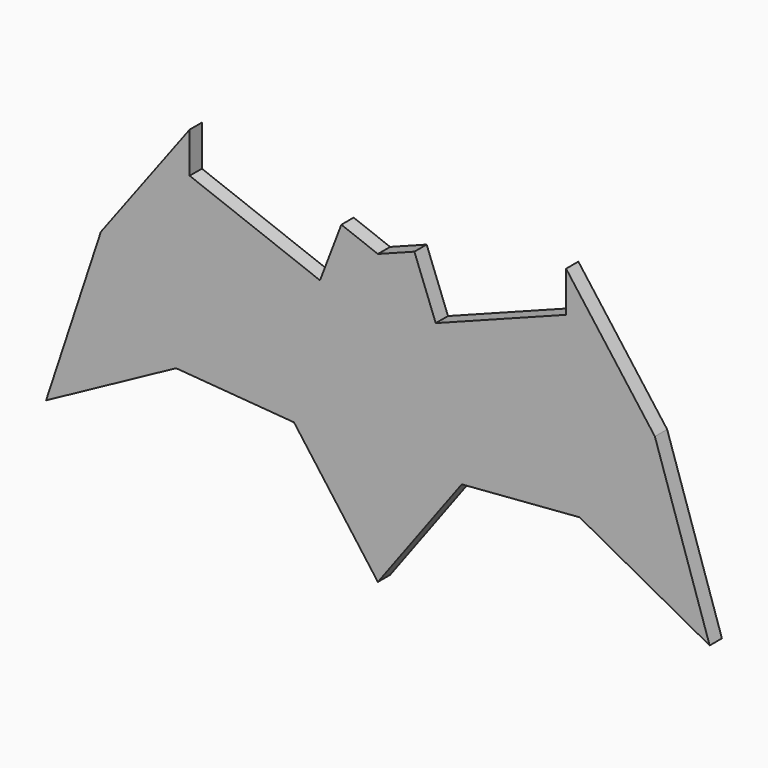
from build123d import *

# Parameters (mm, degrees)
F1_DEPTH = 3.175


with BuildPart() as f1:
    # F0 (on Front) → F1 (new body, symmetric)
    with BuildSketch(Plane.XZ):
        Polygon((0, -81.765905), (0, 37.786804), (-15.120774, 43.55301), (-23.959085, 20.376225), (-77.926721, 40.95642), (-77.926721, 57.776328), (-114.683963, 8.571353), (-137.364388, -60.238726), (-83.546437, -31.023275), (-34.725882, -34.867413), align=None)
        Polygon((15.120774, 43.55301), (0, 37.786804), (0, -81.765905), (34.725882, -34.867413), (83.546437, -31.023275), (137.364388, -60.238726), (114.683963, 8.571353), (77.926721, 57.776328), (77.926721, 40.95642), (23.959085, 20.376225), align=None)
    extrude(amount=F1_DEPTH, both=True)


solid = f1.part
